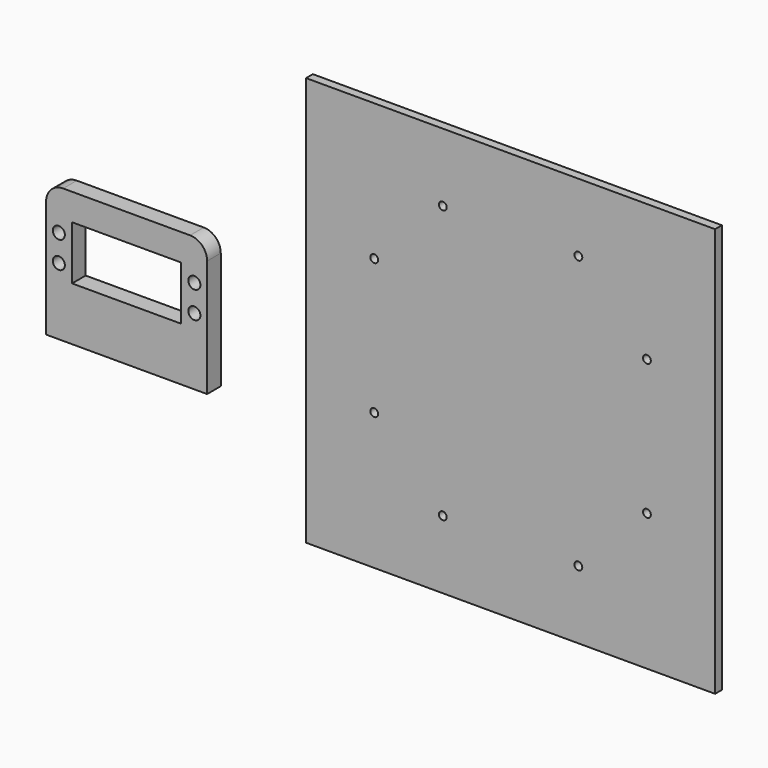
from build123d import *

# Parameters (mm, degrees)
F0_R     = 2.25
F0_W     = 40.64
F0_H     = 20.066
F1_DEPTH = 6.35
F2_W     = 152.4
F2_H     = 152.4
F3_DEPTH = 3.175
F4_R     = 1.4605
F5_DEPTH = 25.4
F6_R     = 0.9652
F7_DEPTH = 5.08


with BuildPart() as f1:
    # F0 (on Front) → F1 (new body)
    with BuildSketch(Plane.XZ):
        with BuildLine():
            ThreePointArc((30, 13.683), (28.140128, 18.173128), (23.65, 20.033))
            Line((23.65, 20.033), (-23.65, 20.033))
            ThreePointArc((-23.65, 20.033), (-28.140128, 18.173128), (-30, 13.683))
            Line((-30, 13.683), (-30, -29.967))
            Line((-30, -29.967), (-25.25, -29.967))
            Line((-25.25, -29.967), (25.25, -29.967))
            Line((25.25, -29.967), (30, -29.967))
            Line((30, -29.967), (30, 13.683))
        make_face()
        with Locations((25.25, -5)):
            Circle(F0_R, mode=Mode.SUBTRACT)
        with Locations((-25.25, -4.967)):
            Circle(F0_R, mode=Mode.SUBTRACT)
        with Locations((-25.25, 5)):
            Circle(F0_R, mode=Mode.SUBTRACT)
        Rectangle(F0_W, F0_H, mode=Mode.SUBTRACT)
        with Locations((25.25, 5)):
            Circle(F0_R, mode=Mode.SUBTRACT)
    extrude(amount=F1_DEPTH)

    # F6 (on face) → F7 (cut)
    with BuildSketch(Plane(origin=(0, 0, -29.967), x_dir=(1, 0, 0), z_dir=(0, 0, -1))):
        with Locations((-25.16, 3.175)):
            Circle(F6_R)
        with Locations((25.16, 3.175)):
            Circle(F6_R)
    extrude(amount=-F7_DEPTH, mode=Mode.SUBTRACT)


with BuildPart() as f3:
    # F2 (on Front) → F3 (new body)
    with BuildSketch(Plane.XZ):
        with Locations((140.514857, 7.345255)):
            Rectangle(F2_W, F2_H)
    extrude(amount=F3_DEPTH)

    # F4 (on face) → F5 (cut)
    with BuildSketch(Plane.XZ.offset(3.175)):
        with Locations((191.314857, 32.595255)):
            Circle(F4_R)
        with Locations((165.764857, 58.145255)):
            Circle(F4_R)
        with Locations((115.264857, 58.145255)):
            Circle(F4_R)
        with Locations((89.714857, 32.595255)):
            Circle(F4_R)
        with Locations((89.714857, -17.904745)):
            Circle(F4_R)
        with Locations((115.264857, -43.454745)):
            Circle(F4_R)
        with Locations((165.764857, -43.454745)):
            Circle(F4_R)
        with Locations((191.314857, -17.904745)):
            Circle(F4_R)
    extrude(amount=-F5_DEPTH, mode=Mode.SUBTRACT)


solid = Compound([f1.part, f3.part])
